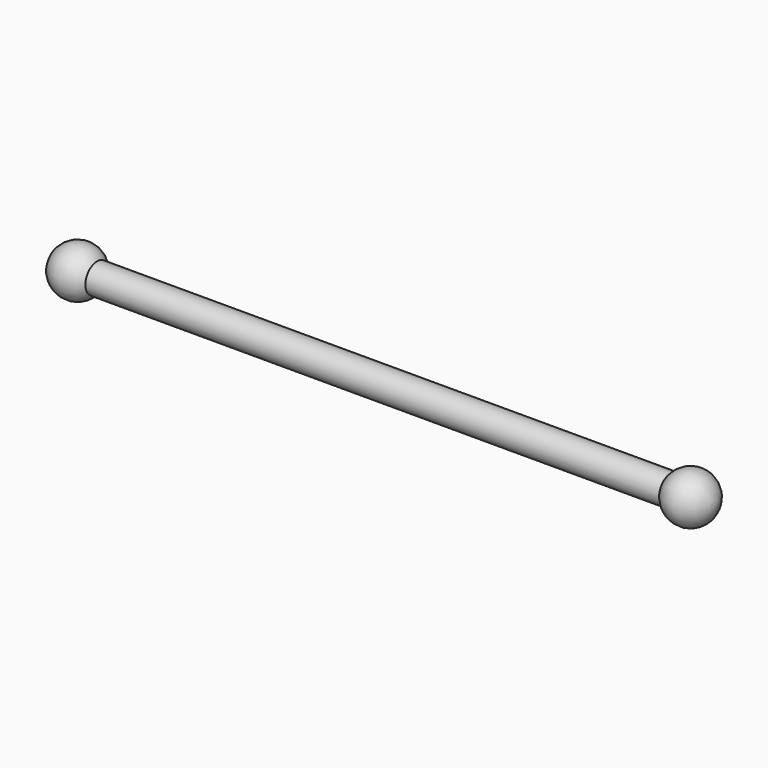
from build123d import *


with BuildPart() as f1:
    # F0 (on Front) → F1 (revolve)
    with BuildSketch(Plane.XZ):
        with BuildLine():
            Line((0, -3), (0, 0))
            Line((0, 0), (-18.807409, 0))
            Line((-18.807409, 0), (-125.84, 0))
            ThreePointArc((-125.84, 0), (-125.53239, -1.726695), (-124.647409, -3.240931))
            ThreePointArc((-124.647409, -3.240931), (-120.685777, -4.997621), (-116.84, -3))
            Line((-116.84, -3), (-0.016949, -3))
            Line((-0.016949, -3), (0, -3))
        make_face()
        with BuildLine():
            Line((8.9916, 0), (0, 0))
            Line((0, 0), (0, -3))
            Line((0, -3), (-0.016949, -3))
            ThreePointArc((-0.016949, -3), (5.568789, -4.747472), (8.9916, 0))
        make_face()
    revolve(axis=Axis((-9.403705, 0, 0), (-1, 0, 0)))


solid = f1.part
